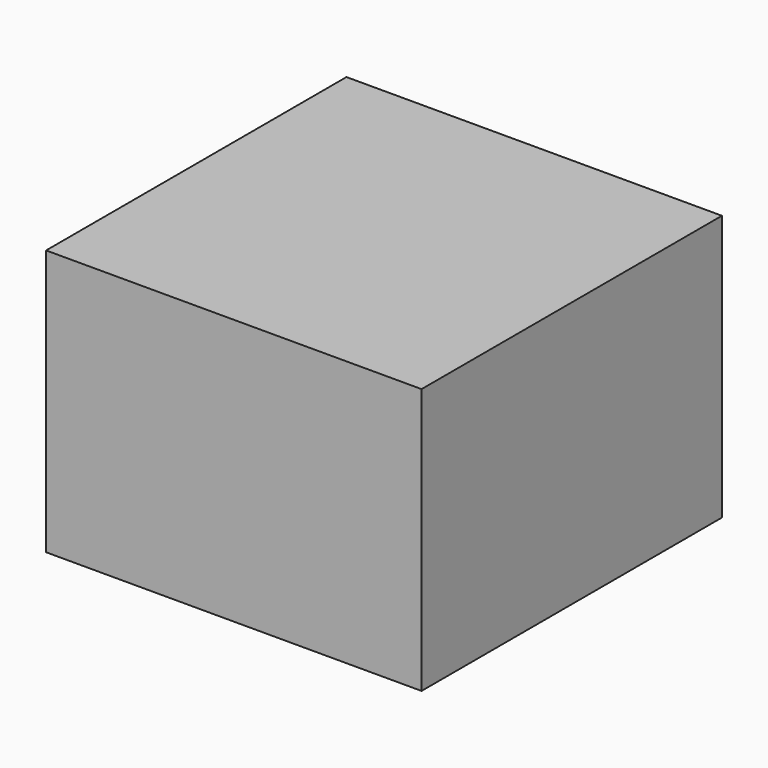
from build123d import *

# Parameters (mm, degrees)
F0_W     = 30
F0_H     = 30
F1_DEPTH = 15
F2_W     = 33.249034
F2_H     = 10.076338
F3_DEPTH = 15


with BuildPart() as f1:
    # F0 (on Front) → F1 (new body, symmetric)
    with BuildSketch(Plane.XZ):
        Rectangle(F0_W, F0_H)
    extrude(amount=F1_DEPTH, both=True)

    # F2 (on Front) → F3 (cut, symmetric)
    with BuildSketch(Plane.XZ):
        with Locations((-0.336298, -11.270183)):
            Rectangle(F2_W, F2_H)
    extrude(amount=F3_DEPTH, both=True, mode=Mode.SUBTRACT)


solid = f1.part
